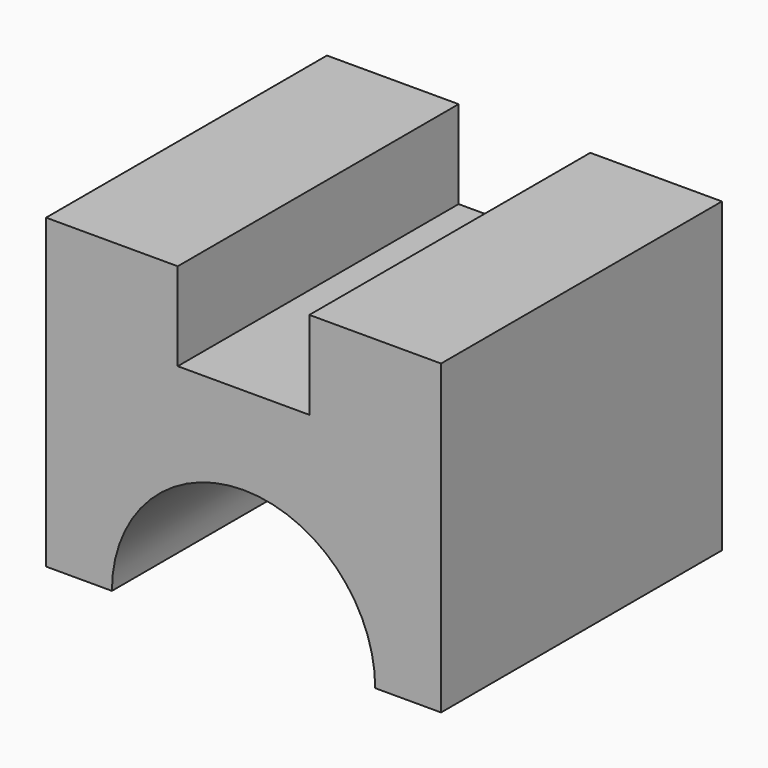
from build123d import *

# Parameters (mm, degrees)
F1_DEPTH = 1016


with BuildPart() as f1:
    # F0 (on Front) → F1 (new body)
    with BuildSketch(Plane.XZ):
        with BuildLine():
            Line((-174.155221, 248.655401), (-555.155221, 248.655401))
            Line((-555.155221, 248.655401), (-555.155221, -640.344599))
            Line((-555.155221, -640.344599), (-364.655221, -640.344599))
            ThreePointArc((-364.655221, -640.344599), (16.344779, -259.344599), (397.344779, -640.344599))
            Line((397.344779, -640.344599), (587.844779, -640.344599))
            Line((587.844779, -640.344599), (587.844779, 248.655401))
            Line((587.844779, 248.655401), (206.844779, 248.655401))
            Line((206.844779, 248.655401), (206.844779, -5.954493))
            Line((206.844779, -5.954493), (-174.155221, -5.954493))
            Line((-174.155221, -5.954493), (-174.155221, 248.655401))
        make_face()
    extrude(amount=F1_DEPTH)


solid = f1.part
